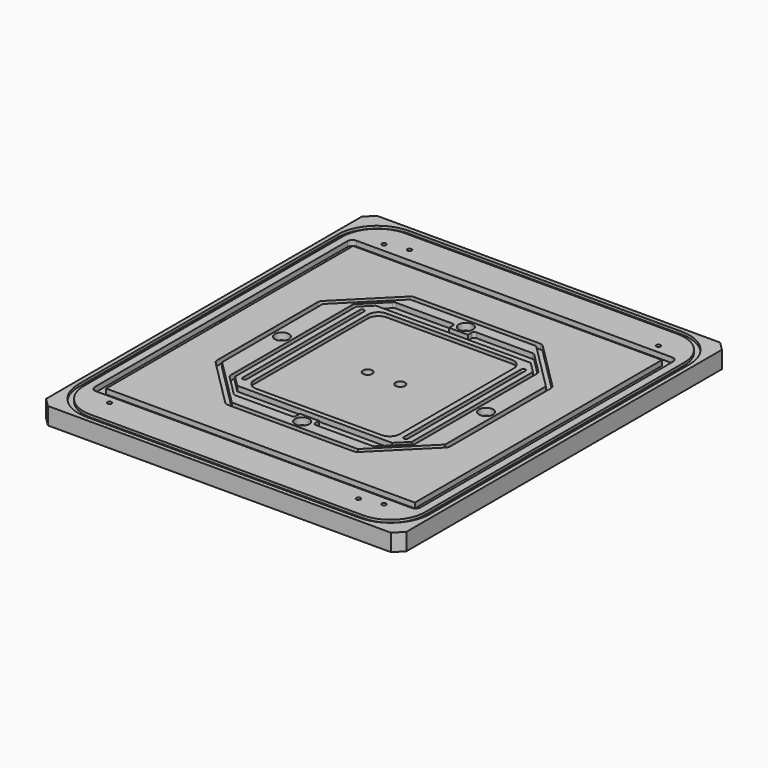
from build123d import *

# Parameters (mm, degrees)
F0_W            = 210
F0_H            = 240
F1_DEPTH        = 10
F3_DEPTH        = 1.5
F4_W            = 180
F4_H            = 180
F5_DEPTH        = 3
F7_DEPTH        = 3
F9_DEPTH        = 3
F11_DEPTH       = 3
F13_DEPTH       = 2
F15_D           = 5.5
F17_D           = 4.4
F17_CBORE_D     = 8.25
F17_CBORE_DEPTH = 4
F18_D           = 2.5
F18_DEPTH       = 8
F18_TIP         = 0.7510757738
F20_D           = 4.4
F20_DEPTH       = 5
F20_TIP         = 1.3218933619
F22_D           = 4.2
F22_DEPTH       = 5
F22_CBORE_D     = 10
F22_CBORE_DEPTH = 0.7
F22_TIP         = 1.2618073
F23_SIZE        = 5
F24_R           = 1.5
F25_R           = 2


with BuildPart() as f1:
    # F0 (on Top) → F1 (new body)
    with BuildSketch(Plane.XY):
        Rectangle(F0_W, F0_H)
    extrude(amount=F1_DEPTH)

    # F2 (on face) → F3 (cut)
    with BuildSketch(Plane.XY.offset(10)):
        with BuildLine():
            Line((102.5, -94.5), (102.5, 94.5))
            ThreePointArc((102.5, 94.5), (95.7634559673, 110.7634559673), (79.5, 117.5))
            Line((79.5, 117.5), (-79.5, 117.5))
            ThreePointArc((-79.5, 117.5), (-95.7634559673, 110.7634559673), (-102.5, 94.5))
            Line((-102.5, 94.5), (-102.5, -94.5))
            ThreePointArc((-102.5, -94.5), (-95.7634559673, -110.7634559673), (-79.5, -117.5))
            Line((-79.5, -117.5), (79.5, -117.5))
            ThreePointArc((79.5, -117.5), (95.7634559673, -110.7634559673), (102.5, -94.5))
        make_face()
        with BuildLine():
            ThreePointArc((99.5, -94.5), (93.6421356237, -108.6421356237), (79.5, -114.5))
            Line((79.5, -114.5), (-79.5, -114.5))
            ThreePointArc((-79.5, -114.5), (-93.6421356237, -108.6421356237), (-99.5, -94.5))
            Line((-99.5, -94.5), (-99.5, 94.5))
            ThreePointArc((-99.5, 94.5), (-93.6421356237, 108.6421356237), (-79.5, 114.5))
            Line((-79.5, 114.5), (79.5, 114.5))
            ThreePointArc((79.5, 114.5), (93.6421356237, 108.6421356237), (99.5, 94.5))
            Line((99.5, 94.5), (99.5, -94.5))
        make_face(mode=Mode.SUBTRACT)
    extrude(amount=-F3_DEPTH, mode=Mode.SUBTRACT)

    # F4 (on face) → F5 (cut)
    with BuildSketch(Plane.XY.offset(10)):
        with BuildLine():
            ThreePointArc((95, 92), (94.1213203436, 94.1213203436), (92, 95))
            Line((92, 95), (-92, 95))
            ThreePointArc((-92, 95), (-94.1213203436, 94.1213203436), (-95, 92))
            Line((-95, 92), (-95, -92))
            ThreePointArc((-95, -92), (-94.1213203436, -94.1213203436), (-92, -95))
            Line((-92, -95), (92, -95))
            ThreePointArc((92, -95), (94.1213203436, -94.1213203436), (95, -92))
            Line((95, -92), (95, 92))
        make_face()
        Rectangle(F4_W, F4_H, mode=Mode.SUBTRACT)
    extrude(amount=-F5_DEPTH, mode=Mode.SUBTRACT)

    # F6 (on face) → F7 (cut, through all)
    with BuildSketch(Plane.XY.offset(10)):
        with BuildLine():
            ThreePointArc((68, 36.7157287525), (67.7716385975, 37.8637790496), (67.1213203436, 38.8370490961))
            Line((67.1213203436, 38.8370490961), (38.8370490961, 67.1213203436))
            ThreePointArc((38.8370490961, 67.1213203436), (37.8637790496, 67.7716385975), (36.7157287525, 68))
            Line((36.7157287525, 68), (0, 68))
            Line((0, 68), (-36.7157287525, 68))
            ThreePointArc((-36.7157287525, 68), (-37.8637790496, 67.7716385975), (-38.8370490961, 67.1213203436))
            Line((-38.8370490961, 67.1213203436), (-67.1213203436, 38.8370490961))
            ThreePointArc((-67.1213203436, 38.8370490961), (-67.7716385975, 37.8637790496), (-68, 36.7157287525))
            Line((-68, 36.7157287525), (-68, 0))
            Line((-68, 0), (-68, -36.7157287525))
            ThreePointArc((-68, -36.7157287525), (-67.7716385975, -37.8637790496), (-67.1213203436, -38.8370490961))
            Line((-67.1213203436, -38.8370490961), (-38.8370490961, -67.1213203436))
            ThreePointArc((-38.8370490961, -67.1213203436), (-37.8637790496, -67.7716385975), (-36.7157287525, -68))
            Line((-36.7157287525, -68), (0, -68))
            Line((0, -68), (36.7157287525, -68))
            ThreePointArc((36.7157287525, -68), (37.8637790496, -67.7716385975), (38.8370490961, -67.1213203436))
            Line((38.8370490961, -67.1213203436), (67.1213203436, -38.8370490961))
            ThreePointArc((67.1213203436, -38.8370490961), (67.7716385975, -37.8637790496), (68, -36.7157287525))
            Line((68, -36.7157287525), (68, 0))
            Line((68, 0), (68, 36.7157287525))
        make_face()
        Polygon((-65, -36.7157287525), (-65, 0), (-65, 36.7157287525), (-36.7157287525, 65), (0, 65), (36.7157287525, 65), (65, 36.7157287525), (65, 0), (65, -36.7157287525), (36.7157287525, -65), (0, -65), (-36.7157287525, -65), align=None, mode=Mode.SUBTRACT)
    extrude(amount=-F7_DEPTH, mode=Mode.SUBTRACT)

    # F8 (on face) → F9 (cut, through all)
    with BuildSketch(Plane.XY.offset(10)):
        Polygon((-54, 45.1715728753), (-54, 0), (-54, -45.1715728753), (-40.6715728753, -58.5), (-5.5, -58.5), (-5.5, -54.3), (0, -54.3), (5.5, -54.3), (5.5, -58.5), (40.6715728753, -58.5), (54, -45.1715728753), (54, 0), (54, 45.1715728753), (40.6715728753, 58.5), (5.5, 58.5), (5.5, 54.3), (0, 54.3), (-5.5, 54.3), (-5.5, 58.5), (-40.6715728753, 58.5), align=None)
        Polygon((-51.5, -44.1360389693), (-51.5, 0), (-51.5, 44.1360389693), (-45.1360389693, 50.5), (0, 50.5), (45.1360389693, 50.5), (51.5, 44.1360389693), (51.5, 0), (51.5, -44.1360389693), (45.1360389693, -50.5), (0, -50.5), (-45.1360389693, -50.5), align=None, mode=Mode.SUBTRACT)
    extrude(amount=-F9_DEPTH, mode=Mode.SUBTRACT)

    # F10 (on face) → F11 (cut, through all)
    with BuildSketch(Plane.XY.offset(10)):
        with BuildLine():
            ThreePointArc((-45.7, 42.75), (-46.95, 44), (-48.2, 42.75))
            Line((-48.2, 42.75), (-48.2, -42.75))
            ThreePointArc((-48.2, -42.75), (-46.95, -44), (-45.7, -42.75))
            Line((-45.7, -42.75), (-45.7, 42.75))
        make_face()
        with BuildLine():
            ThreePointArc((45.7, -42.75), (46.95, -44), (48.2, -42.75))
            Line((48.2, -42.75), (48.2, 42.75))
            ThreePointArc((48.2, 42.75), (46.95, 44), (45.7, 42.75))
            Line((45.7, 42.75), (45.7, -42.75))
        make_face()
    extrude(amount=-F11_DEPTH, mode=Mode.SUBTRACT)

    # F12 (on face) → F13 (cut)
    with BuildSketch(Plane.XY.offset(10)):
        with BuildLine():
            Line((-36.5, -47.5), (36.5, -47.5))
            ThreePointArc((36.5, -47.5), (40.7426406871, -45.7426406871), (42.5, -41.5))
            Line((42.5, -41.5), (42.5, 41.5))
            ThreePointArc((42.5, 41.5), (40.7426406871, 45.7426406871), (36.5, 47.5))
            Line((36.5, 47.5), (-36.5, 47.5))
            ThreePointArc((-36.5, 47.5), (-40.7426406871, 45.7426406871), (-42.5, 41.5))
            Line((-42.5, 41.5), (-42.5, -41.5))
            ThreePointArc((-42.5, -41.5), (-40.7426406871, -45.7426406871), (-36.5, -47.5))
        make_face()
    extrude(amount=-F13_DEPTH, mode=Mode.SUBTRACT)

    # F15 (through all)
    with Locations(Plane.XY.offset(8)):
        with Locations((-9.5, 0), (9.5, 0)):
            Hole(F15_D / 2)

    # F17 (through all)
    with Locations(Plane.XY.offset(10)):
        with Locations((0, 59.65), (59.5, 0), (0, -59.65), (-59.5, 0)):
            CounterBoreHole(F17_D / 2, F17_CBORE_D / 2, F17_CBORE_DEPTH)

    # F18
    with Locations(Plane.XY.offset(10)):
        with Locations((-80, 100), (-67.5, 103), (80, 100), (-80, -100), (80, -100), (67.5, -103)):
            Hole(F18_D / 2, depth=F18_DEPTH)
            with Locations((0, 0, -(F18_DEPTH + F18_TIP / 2))):  # 118° drill point
                Cone(0, F18_D / 2, F18_TIP, mode=Mode.SUBTRACT)

    # F20
    with Locations(Plane.XY.offset(7)):
        with Locations((-92.5, 0)):
            Hole(F20_D / 2, depth=F20_DEPTH)
            with Locations((0, 0, -(F20_DEPTH + F20_TIP / 2))):  # 118° drill point
                Cone(0, F20_D / 2, F20_TIP, mode=Mode.SUBTRACT)

    # F22
    with Locations(Plane(origin=(0, 0, 0), x_dir=(1, 0, 0), z_dir=(0, 0, -1))):
        with Locations((-17.5, -57.5), (17.5, 57.5)):
            CounterBoreHole(F22_D / 2, F22_CBORE_D / 2, F22_CBORE_DEPTH, depth=F22_DEPTH)
            with Locations((0, 0, -(F22_DEPTH + F22_TIP / 2))):  # 118° drill point
                Cone(0, F22_D / 2, F22_TIP, mode=Mode.SUBTRACT)

    # F23
    f23_edges = [f1.edges().sort_by_distance(p)[0] for p in [
        (-105, 120, 5),
        (105, 120, 5),
        (-105, -120, 5),
        (105, -120, 5),
    ]]
    chamfer(f23_edges, length=F23_SIZE)

    # F24
    f24_edges = [f1.edges().sort_by_distance(p)[0] for p in [
        (-5.5, 58.5, 8.5),
        (5.5, 58.5, 8.5),
        (5.5, -58.5, 8.5),
        (-5.5, -58.5, 8.5),
    ]]
    fillet(f24_edges, radius=F24_R)

    # F25
    f25_edges = [f1.edges().sort_by_distance(p)[0] for p in [
        (40.671573, 58.5, 8.5),
        (-40.671573, 58.5, 8.5),
        (-54, 45.171573, 8.5),
        (-54, -45.171573, 8.5),
        (-40.671573, -58.5, 8.5),
        (40.671573, -58.5, 8.5),
        (54, -45.171573, 8.5),
        (54, 45.171573, 8.5),
    ]]
    fillet(f25_edges, radius=F25_R)


solid = f1.part
